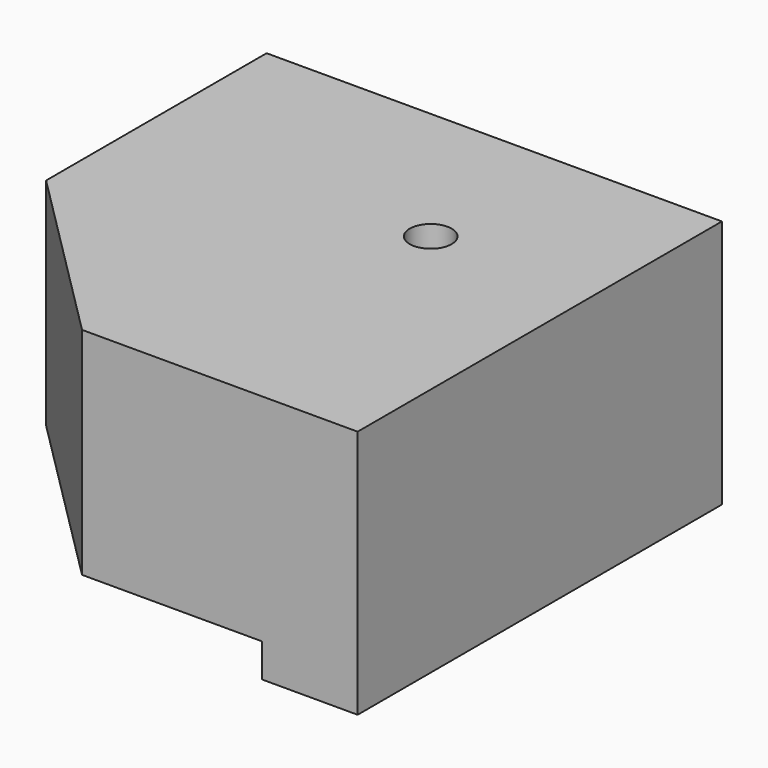
from build123d import *

# Parameters (mm, degrees)
F0_R     = 1.75
F1_DEPTH = 18
F2_DEPTH = 2.8


with BuildPart() as f1:
    # F0 (on Top) → F1 (new body)
    with BuildSketch(Plane.XY):
        Polygon((5.5, -24.5), (5.5, 0), (5.5, 5.5), (0, 5.5), (-24.5, 5.5), (-24.5, -9.5), (-9.5, -24.5), align=None)
        Circle(F0_R, mode=Mode.SUBTRACT)
        Polygon((5.5, 5.5), (5.5, 0), (5.5, -24.5), (13.5, -24.5), (13.5, 0), (13.5, 13.5), (0, 13.5), (-24.5, 13.5), (-24.5, 5.5), (0, 5.5), align=None)
    extrude(amount=F1_DEPTH)

    # F0 (on Top) → F2 (join)
    with BuildSketch(Plane.XY):
        Polygon((5.5, 5.5), (5.5, 0), (5.5, -24.5), (13.5, -24.5), (13.5, 0), (13.5, 13.5), (0, 13.5), (-24.5, 13.5), (-24.5, 5.5), (0, 5.5), align=None)
    extrude(amount=-F2_DEPTH)


solid = f1.part
